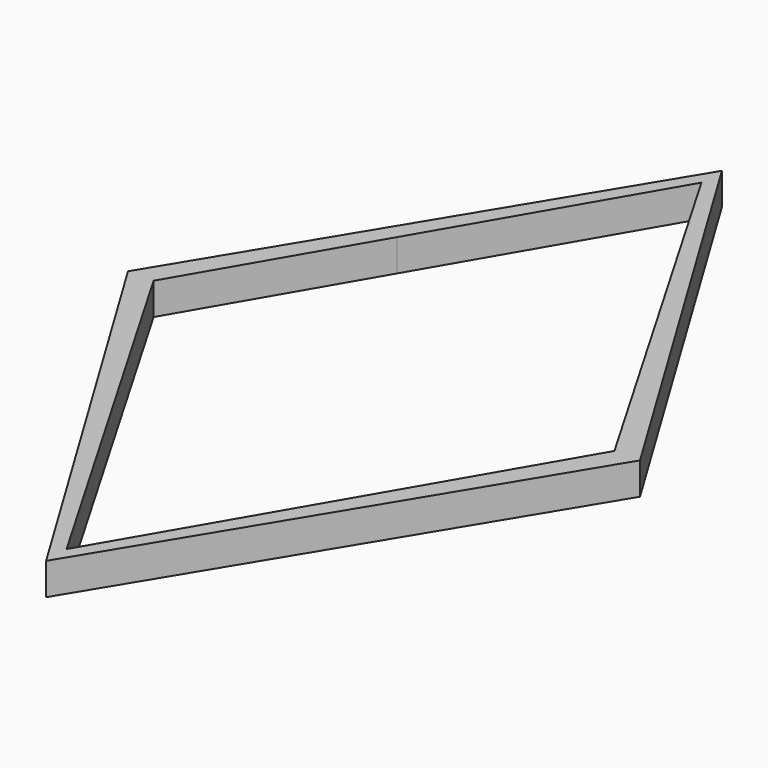
from build123d import *

# Parameters (mm, degrees)
F1_DEPTH = 2.5


with BuildPart() as f1:
    # F0 (on Top) → F1 (new body)
    with BuildSketch(Plane.XY):
        Polygon((-20, 0), (-18, 0), (-10, 13.777778), (0, 31), (0, 33), align=None)
        Polygon((0, -31), (-18, 0), (-20, 0), (0, -33), align=None)
        Polygon((10.501066, -12.914831), (0, -31), (0, -33), (20, 0), (18, 0), align=None)
        Polygon((0, 31), (18, 0), (20, 0), (0, 33), align=None)
    extrude(amount=F1_DEPTH)


solid = f1.part
